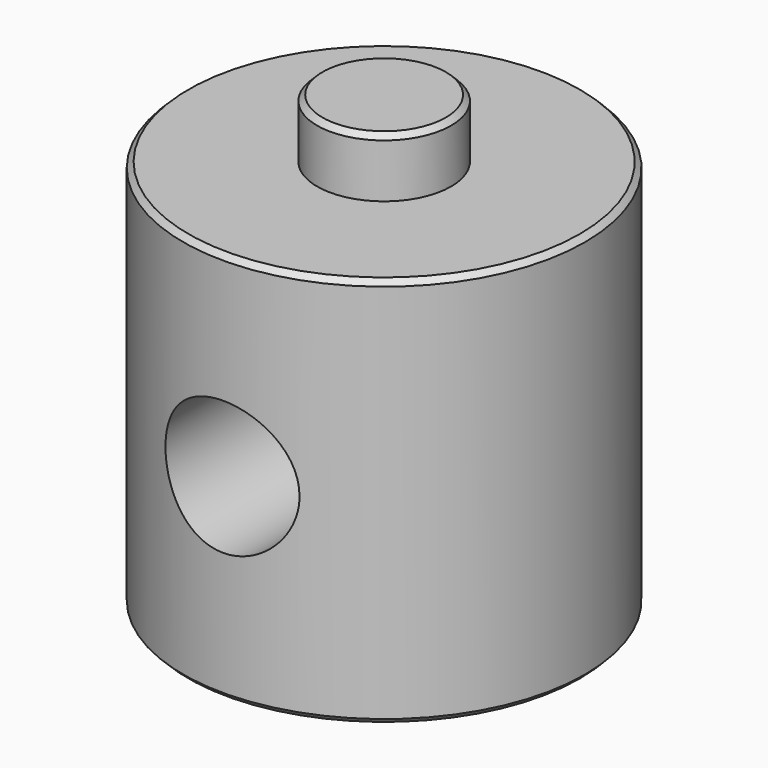
from build123d import *

# Parameters (mm, degrees)
F0_R          = 9.525
F1_DEPTH      = 18.542
F2_R          = 3.175
F3_DEPTH      = 2.794
F4_R          = 3.175
F5_DEPTH      = 2.794
F6_R          = 3.175
F7_DEPTH      = 25.4
F7_DEPTH_BACK = 25.4
F8_SIZE       = 0.254


with BuildPart() as f1:
    # F0 (on Top) → F1 (new body)
    with BuildSketch(Plane.XY):
        Circle(F0_R)
    extrude(amount=F1_DEPTH)

    # F2 (on face) → F3 (join)
    with BuildSketch(Plane(origin=(0, 0, 0), x_dir=(1, 0, 0), z_dir=(0, 0, -1))):
        Circle(F2_R)
    extrude(amount=F3_DEPTH)

    # F4 (on face) → F5 (join)
    with BuildSketch(Plane.XY.offset(18.542)):
        Circle(F4_R)
    extrude(amount=F5_DEPTH)

    # F6 (on Front) → F7 (cut, two sides)
    with BuildSketch(Plane.XZ) as f7_sk:
        with Locations((0, 9.271)):
            Circle(F6_R)
    extrude(amount=F7_DEPTH, mode=Mode.SUBTRACT)
    extrude(f7_sk.sketch, amount=-F7_DEPTH_BACK, mode=Mode.SUBTRACT)

    # F8
    f8_edges = [f1.edges().sort_by_distance(p)[0] for p in [
        (-9.525, 0, 18.542),
        (-3.175, 0, -2.794),
        (-9.525, 0, 0),
        (-3.175, 0, 21.336),
    ]]
    chamfer(f8_edges, length=F8_SIZE)


solid = f1.part
